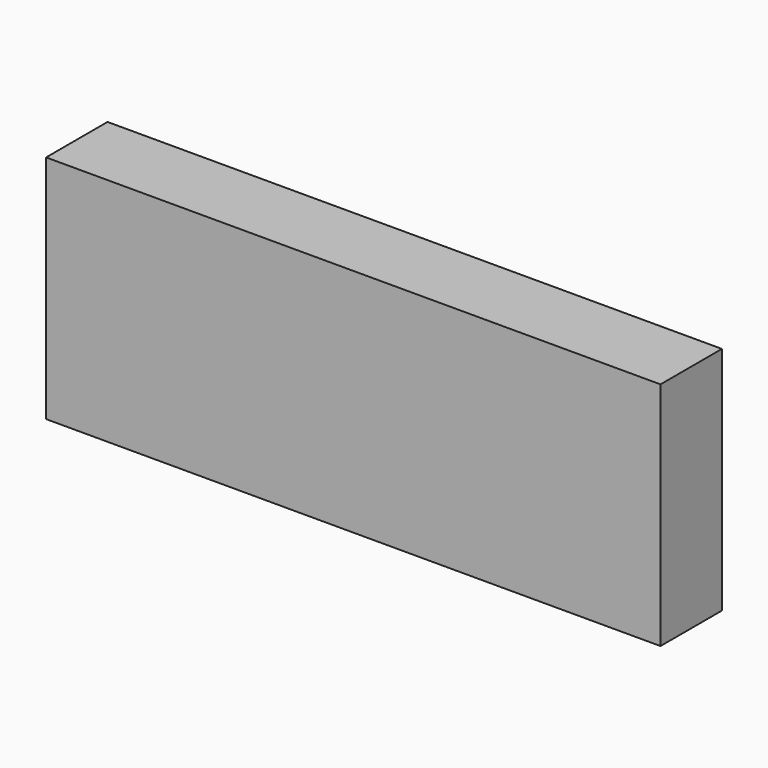
from build123d import *

# Parameters (mm, degrees)
F0_W     = 203.2
F0_H     = 76.2
F0_R     = 3.175
F1_DEPTH = 25.4
F2_DEPTH = 7.62


with BuildPart() as f1:
    # F0 (on Front) → F1 (new body)
    with BuildSketch(Plane.XZ):
        with Locations((101.6, 38.1)):
            Rectangle(F0_W, F0_H)
        with Locations((30.455392, 38.1)):
            Circle(F0_R, mode=Mode.SUBTRACT)
        with Locations((49.505392, 38.1)):
            Circle(F0_R, mode=Mode.SUBTRACT)
        with Locations((113.005392, 38.1)):
            Circle(F0_R, mode=Mode.SUBTRACT)
        with BuildLine():
            ThreePointArc((135.230392, 38.1), (132.055392, 34.925), (128.880392, 38.1))
            ThreePointArc((128.880392, 38.1), (132.055392, 41.275), (135.230392, 38.1))
        make_face(mode=Mode.SUBTRACT)
        with Locations((113.005392, 38.1)):
            Circle(F0_R)
        with BuildLine():
            ThreePointArc((135.230392, 38.1), (132.055392, 41.275), (128.880392, 38.1))
            ThreePointArc((128.880392, 38.1), (132.055392, 34.925), (135.230392, 38.1))
        make_face()
        with BuildLine():
            ThreePointArc((135.230392, 38.1), (132.055392, 41.275), (128.880392, 38.1))
            ThreePointArc((128.880392, 38.1), (132.055392, 34.925), (135.230392, 38.1))
        make_face()
        with Locations((113.005392, 38.1)):
            Circle(F0_R)
        with Locations((49.505392, 38.1)):
            Circle(F0_R)
        with Locations((30.455392, 38.1)):
            Circle(F0_R)
    extrude(amount=F1_DEPTH)

    # F0 (on Front) → F2 (join)
    with BuildSketch(Plane.XZ):
        with BuildLine():
            ThreePointArc((135.230392, 38.1), (132.055392, 41.275), (128.880392, 38.1))
            ThreePointArc((128.880392, 38.1), (132.055392, 34.925), (135.230392, 38.1))
        make_face()
        with Locations((113.005392, 38.1)):
            Circle(F0_R)
        with Locations((49.505392, 38.1)):
            Circle(F0_R)
        with Locations((30.455392, 38.1)):
            Circle(F0_R)
    extrude(amount=-F2_DEPTH)


solid = f1.part
